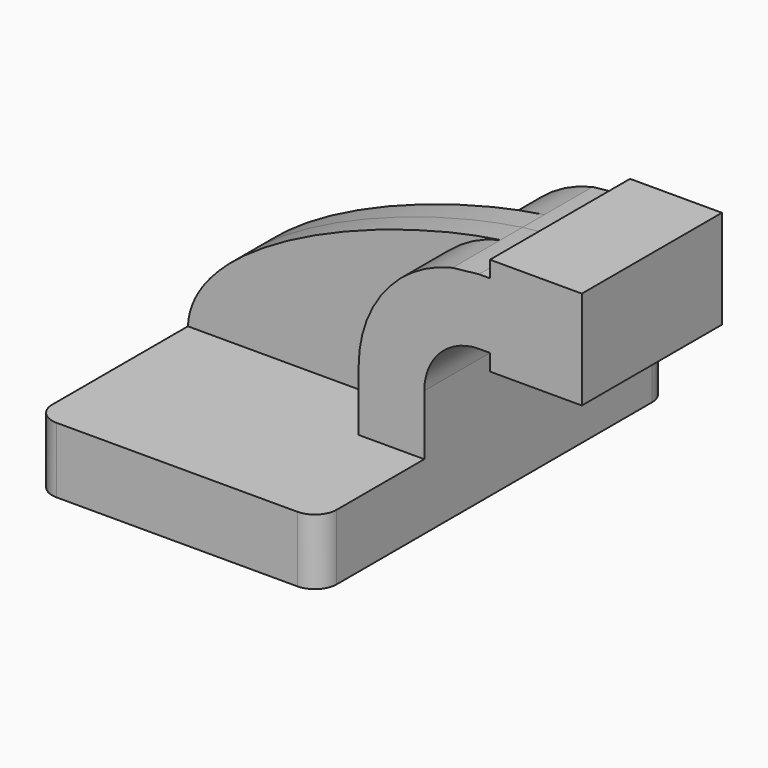
from build123d import *

# Parameters (mm, degrees)
F1_DEPTH = 63.5
F2_DEPTH = 25.4
F3_DEPTH = 7.9375
F0_W     = 26.651772843
F0_H     = 19.05
F4_DEPTH = 25.4
F0_H_2   = 4.7498
F5_DEPTH = 25.4
F0_H_3   = 4.7752
F6_DEPTH = 25.4
F7_R     = 6.35


with BuildPart() as f1:
    # F0 (on Front) → F1 (new body, symmetric)
    with BuildSketch(Plane.XZ):
        Polygon((22.225, 9.525), (-41.275, 9.525), (-41.275, -9.525), (41.275, -9.525), (41.275, 9.525), align=None)
    extrude(amount=F1_DEPTH, both=True)

    # F0 (on Front) → F2 (join, symmetric)
    with BuildSketch(Plane.XZ):
        with BuildLine():
            Line((22.225, 27.0002), (22.225, 9.525))
            Line((22.225, 9.525), (41.275, 9.525))
            Line((41.275, 9.525), (41.275, 27.0002))
            ThreePointArc((41.275, 27.0002), (45.9246798487, 38.2255201513), (57.15, 42.8752))
            Line((57.15, 42.8752), (60.325, 42.8752))
            Line((60.325, 42.8752), (60.325, 61.9252))
            Line((60.325, 61.9252), (57.15, 61.9252))
            add(Edge.make_bspline(
                [(49.4302171485, 61.0613300125), (52.1251476125, 61.4486009336), (54.7091322503, 61.7385972485), (57.15, 61.9252)],
                knots=[103.5956862279, 103.5956862279, 103.5956862279, 103.5956862279, 111.5045361635, 111.5045361635, 111.5045361635, 111.5045361635], degree=3))
            ThreePointArc((49.4302171485, 61.0613300125), (29.8610916205, 48.7963259047), (22.225, 27.0002))
        make_face()
    extrude(amount=F2_DEPTH, both=True)

    # F0 (on Front) → F3 (join, symmetric)
    with BuildSketch(Plane.XZ):
        with BuildLine():
            add(Edge.make_bspline(
                [(-41.275, 9.525), (-40.2056240451, 34.2258425008), (14.1301200379, 55.9885827536), (49.4302171485, 61.0613300125)],
                knots=[0, 0, 0, 0, 103.5956862279, 103.5956862279, 103.5956862279, 103.5956862279], degree=3))
            Line((-41.275, 9.525), (22.225, 9.525))
            Line((22.225, 9.525), (22.225, 27.0002))
            ThreePointArc((22.225, 27.0002), (29.8610916205, 48.7963259047), (49.4302171485, 61.0613300125))
        make_face()
    extrude(amount=F3_DEPTH, both=True)

    # F0 (on Front) → F4 (join, symmetric)
    with BuildSketch(Plane.XZ):
        with Locations((73.6508864215, 52.4002)):
            Rectangle(F0_W, F0_H)
    extrude(amount=F4_DEPTH, both=True)

    # F0 (on Front) → F5 (join, symmetric)
    with BuildSketch(Plane.XZ):
        with Locations((73.6508864215, 64.3001)):
            Rectangle(F0_W, F0_H_2)
    extrude(amount=F5_DEPTH, both=True)

    # F0 (on Front) → F6 (join, symmetric)
    with BuildSketch(Plane.XZ):
        with Locations((73.6508864215, 40.4876)):
            Rectangle(F0_W, F0_H_3)
    extrude(amount=F6_DEPTH, both=True)

    # F7
    f7_edges = [f1.edges().sort_by_distance(p)[0] for p in [
        (-41.275, -63.5, 0),
        (41.275, -63.5, 0),
        (41.275, 63.5, 0),
        (-41.275, 63.5, 0),
    ]]
    fillet(f7_edges, radius=F7_R)


solid = f1.part
